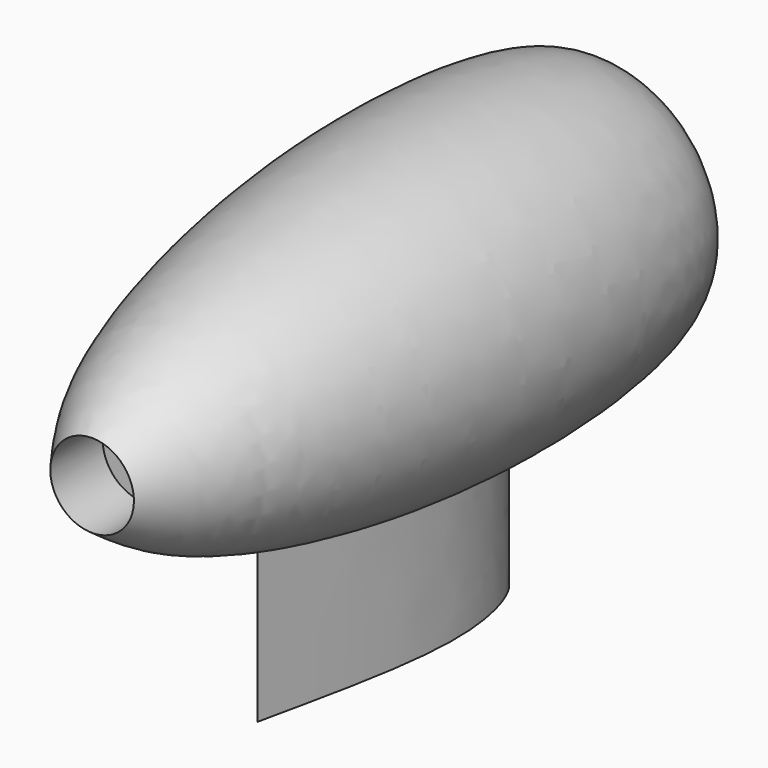
from build123d import *


with BuildPart() as f1:
    # F0 (on Right) → F1 (revolve)
    with BuildSketch(Plane.YZ):
        with BuildLine():
            Line((-914.4, 0), (0, 0))
            Line((0, 0), (0, 152.4))
            add(Edge.make_bspline(
                [(0, 152.4), (-10.013870678, 169.5626198496), (-44.4166271771, 228.524978218), (-461.3946072213, 256.5746267891), (-877.0971092105, 166.8179066354), (-978.8487174046, 93.0124827966), (-1016.8743133545, 65.4306560755)],
                knots=[0, 0, 0, 0, 0.1326669559, 0.4557787019, 0.7966190456, 1, 1, 1, 1], degree=3))
            Line((-1016.8743133545, 65.4306560755), (-914.4, 65.4306560755))
            Line((-914.4, 65.4306560755), (-914.4, 0))
        make_face()
    revolve(axis=Axis((0, -457.2, 0), (0, -1, 0)))


with BuildPart() as f4:
    # F3 (on offset) → F4 (new body, up to the next surface of F1)
    with BuildSketch(Plane.XY.offset(-457.2)):
        with BuildLine():
            add(Edge.make_bspline(
                [(0, -209.8440527916), (20.4219501466, -212.5573158264), (78.9065800158, -350.6934035144), (30.5843770068, -550.3805770627), (0, -693.6187148094)],
                knots=[0, 0, 0, 0, 0.3619174054, 1, 1, 1, 1], degree=3))
            Line((0, -209.8440527916), (0, -693.6187148094))
        make_face()
        with BuildLine():
            Line((0, -693.6187148094), (0, -209.8440527916))
            add(Edge.make_bspline(
                [(0, -209.8440527916), (-20.4219501466, -212.5573158264), (-78.9065800158, -350.6934035144), (-30.5843770068, -550.3805770627), (0, -693.6187148094)],
                knots=[0, 0, 0, 0, 0.3619174054, 1, 1, 1, 1], degree=3))
        make_face()
    extrude(until=Until.NEXT, target=f1.part)


solid = Compound([f1.part, f4.part])
